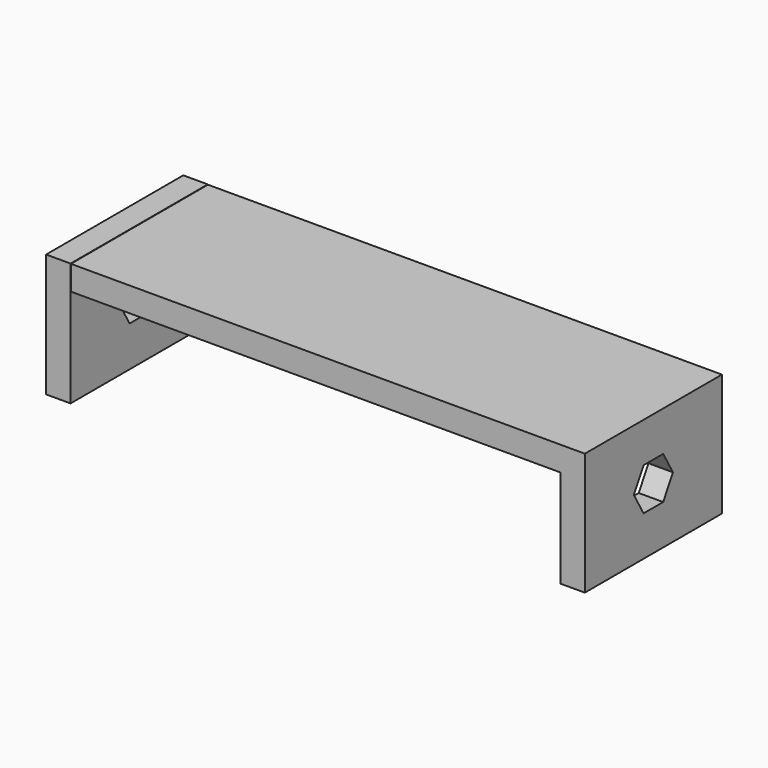
from build123d import *

# Parameters (mm, degrees)
F0_W     = 88.9
F0_H     = 63.5
F1_DEPTH = 12.7
F3_W     = 88.9880172908
F3_H     = 63.9023780823
F4_DEPTH = 12.7
F6_W     = 266.7
F6_H     = 88.9
F6_W_2   = 12.7
F7_DEPTH = 12.7
F8_DEPTH = 304.8


with BuildPart() as f1:
    # F0 (on Right) → F1 (new body)
    with BuildSketch(Plane.YZ):
        with Locations((-23.3373962309, 16.2396542728)):
            Rectangle(F0_W, F0_H)
    extrude(amount=F1_DEPTH)



with BuildPart() as f4:
    # F3 (on offset) → F4 (new body)
    with BuildSketch(Plane.YZ.offset(-254)):
        with Locations((-23.5012862831, 16.2396542728)):
            Rectangle(F3_W, F3_H)
    extrude(amount=-F4_DEPTH)


with BuildPart() as f1_1:
    add(f1.part)

    add(f4.part)  # F7 merges F4
    # F6 (on face) → F7 (join)
    with BuildSketch(Plane.XY.offset(47.9896542728)):
        with Locations((-133.35, -23.3373962309)):
            Rectangle(F6_W, F6_H)
        with Locations((6.35, -23.3373962309)):
            Rectangle(F6_W_2, F6_H)
    extrude(amount=-F7_DEPTH)

    # F5 (on face) → F8 (cut)
    with BuildSketch(Plane.YZ.offset(12.7)):
        Polygon((-16.9873962309, 5.2411316447), (-10.6373962309, 16.2396542728), (-16.9873962309, 27.2381769009), (-29.6873962309, 27.2381769009), (-36.0373962309, 16.2396542728), (-29.6873962309, 5.2411316447), align=None)
    extrude(amount=-F8_DEPTH, mode=Mode.SUBTRACT)


solid = f1_1.part
